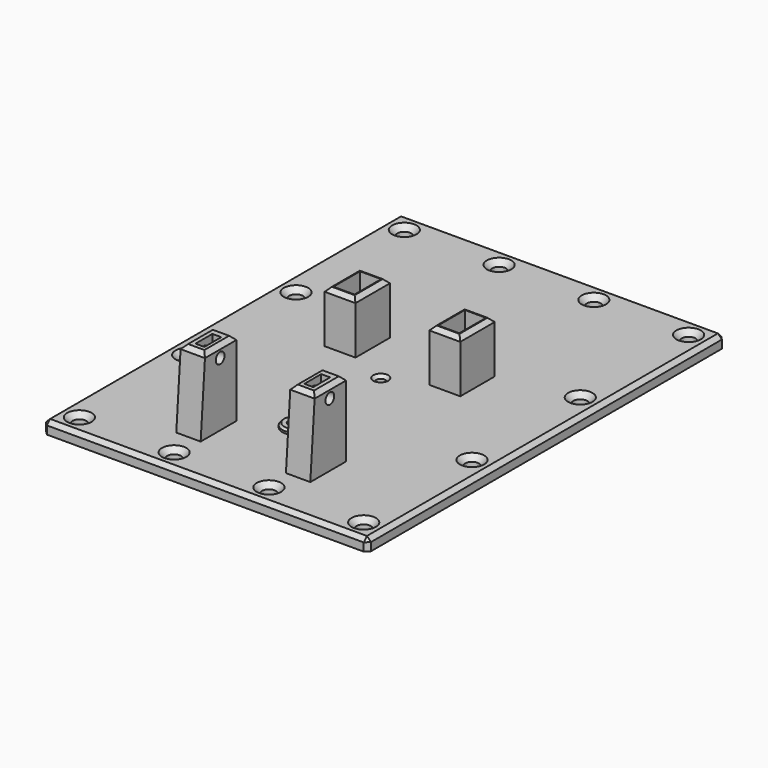
from build123d import *

# Parameters (mm, degrees)
SKETCH014_W     = 80
SKETCH014_H     = 110
PAD004_DEPTH    = 3
SKETCH015_R     = 3.2
PAD005_DEPTH    = 1
SKETCH016_R     = 1.65
POCKET010_DEPTH = 4.001
SKETCH017_W     = 7.6
SKETCH017_H     = 10.6
PAD006_DEPTH    = 12.8
SKETCH018_W     = 5.2
SKETCH018_H     = 8.2
POCKET011_DEPTH = 8.2
SKETCH019_R     = 1.1
SKETCH019_R_2   = 1.7
POCKET012_DEPTH = 3.001
SKETCH020_W     = 6
SKETCH020_H     = 11
PAD007_DEPTH    = 18.55
SKETCH021_R     = 1.35
POCKET013_DEPTH = 56.501
SKETCH022_W     = 2.2
SKETCH022_H     = 5.2
POCKET014_DEPTH = 5.7
SKETCH023_R     = 1.1
POCKET015_DEPTH = 15.851
CHAMFER_SIZE    = 1
CHAMFER001_SIZE = 1.3
CHAMFER002_SIZE = 1
CHAMFER003_SIZE = 0.75
CHAMFER004_SIZE = 0.5


with BuildPart() as part:
    # Sketch014 → Pad004 (new body)
    with BuildSketch(Plane.XY):
        with Locations((0, 55)):
            Rectangle(SKETCH014_W, SKETCH014_H)
    extrude(amount=PAD004_DEPTH)

    # Sketch015 (on Face6 of Pad004) → Pad005 (join)
    with BuildSketch(Plane.XY.offset(3)):
        with Locations((0, 27.7)):
            Circle(SKETCH015_R)
    extrude(amount=PAD005_DEPTH)

    # Sketch016 (on Face8 of Pad005) → Pocket010 (cut, through all)
    with BuildSketch(Plane.XY.offset(4)):
        with Locations((0, 27.7)):
            Circle(SKETCH016_R)
    extrude(amount=-POCKET010_DEPTH, mode=Mode.SUBTRACT)

    # Sketch017 (on Face5 of Pocket010) → Pad006 (join)
    with BuildSketch(Plane.XY.offset(3)):
        with Locations((-12.9, 62.9)):
            Rectangle(SKETCH017_W, SKETCH017_H)
        with Locations((12.9, 62.9)):
            Rectangle(SKETCH017_W, SKETCH017_H)
    extrude(amount=PAD006_DEPTH)

    # Sketch018 (on Face18 of Pad006) → Pocket011 (cut)
    with BuildSketch(Plane.XY.offset(15.8)):
        with Locations((-12.9, 62.9)):
            Rectangle(SKETCH018_W, SKETCH018_H)
        with Locations((12.9, 62.9)):
            Rectangle(SKETCH018_W, SKETCH018_H)
    extrude(amount=-POCKET011_DEPTH, mode=Mode.SUBTRACT)

    # Sketch019 (on Face5 of Pocket011) → Pocket012 (cut, through all)
    with BuildSketch(Plane.XY.offset(3)):
        with Locations((0, 54)):
            Circle(SKETCH019_R)
        with Locations((-11.667, 5)):
            Circle(SKETCH019_R_2)
        with Locations((11.666, 5)):
            Circle(SKETCH019_R_2)
        with Locations((35, 5)):
            Circle(SKETCH019_R_2)
        with Locations((-35, 38.333)):
            Circle(SKETCH019_R_2)
        with Locations((-35, 71.666)):
            Circle(SKETCH019_R_2)
        with Locations((-35, 105)):
            Circle(SKETCH019_R_2)
        with Locations((35, 38.333)):
            Circle(SKETCH019_R_2)
        with Locations((35, 71.666)):
            Circle(SKETCH019_R_2)
        with Locations((35, 105)):
            Circle(SKETCH019_R_2)
        with Locations((-11.667, 105)):
            Circle(SKETCH019_R_2)
        with Locations((11.666, 105)):
            Circle(SKETCH019_R_2)
        with Locations((-35, 5)):
            Circle(SKETCH019_R_2)
    extrude(amount=-POCKET012_DEPTH, mode=Mode.SUBTRACT)

    # Sketch020 (on Face5 of Pocket012) → Pad007 (join)
    with BuildSketch(Plane.XY.offset(3)):
        with Locations((13.5, 17.2)):
            Rectangle(SKETCH020_W, SKETCH020_H)
        with Locations((-13.5, 17.2)):
            Rectangle(SKETCH020_W, SKETCH020_H)
    extrude(amount=PAD007_DEPTH)

    # Sketch021 (on Face22 of Pad007) → Pocket013 (cut, through all)
    with BuildSketch(Plane(origin=(-16.5, 0, 0), x_dir=(0, -1, 0), z_dir=(-1, 0, 0))):
        with Locations((-17.7, 18.675)):
            Circle(SKETCH021_R)
        Polygon((-11.7, 3.05), (-11.7, 21.6), (-13.1, 21.6), align=None)
    extrude(amount=-POCKET013_DEPTH, mode=Mode.SUBTRACT)

    # Sketch022 (on Face39 of Pocket013) → Pocket014 (cut)
    with BuildSketch(Plane.XY.offset(21.55)):
        with Locations((-13.4, 17.7)):
            Rectangle(SKETCH022_W, SKETCH022_H)
        with Locations((13.4, 17.7)):
            Rectangle(SKETCH022_W, SKETCH022_H)
    extrude(amount=-POCKET014_DEPTH, mode=Mode.SUBTRACT)

    # Sketch023 (on Face65 of Pocket014) → Pocket015 (cut, through all)
    with BuildSketch(Plane.XY.offset(15.85)):
        with Locations((13.4, 19)):
            Circle(SKETCH023_R)
        with Locations((-13.4, 19)):
            Circle(SKETCH023_R)
    extrude(amount=-POCKET015_DEPTH, mode=Mode.SUBTRACT)

    # Chamfer
    chamfer_edges = [part.edges().sort_by_distance(p)[0] for p in [
        (0, 0, 3),
        (40, 55, 3),
        (0, 110, 3),
        (-40, 55, 3),
        (-40, 0, 1.5),
        (40, 0, 1.5),
        (-40, 110, 1.5),
        (40, 110, 1.5),
    ]]
    chamfer(chamfer_edges, length=CHAMFER_SIZE)

    # Chamfer001
    chamfer001_edges = [part.edges().sort_by_distance(p)[0] for p in [
        (33.3, 5, 3),
        (33.3, 38.333, 3),
        (33.3, 71.666, 3),
        (33.3, 105, 3),
        (9.966, 105, 3),
        (-13.367, 105, 3),
        (-36.7, 105, 3),
        (-36.7, 71.666, 3),
        (-36.7, 38.333, 3),
        (-36.7, 5, 3),
        (-13.367, 5, 3),
        (9.966, 5, 3),
    ]]
    chamfer(chamfer001_edges, length=CHAMFER001_SIZE)

    # Chamfer002
    chamfer002_edges = [part.edges().sort_by_distance(p)[0] for p in [
        (-16.5, 17.898113, 21.55),
        (-13.5, 13.096226, 21.55),
        (-10.5, 17.898113, 21.55),
        (-13.5, 22.7, 21.55),
        (10.5, 17.898113, 21.55),
        (13.5, 13.096226, 21.55),
        (16.5, 17.898113, 21.55),
        (13.5, 22.7, 21.55),
        (16.7, 62.9, 15.8),
        (12.9, 68.2, 15.8),
        (9.1, 62.9, 15.8),
        (12.9, 57.6, 15.8),
        (-9.1, 62.9, 15.8),
        (-12.9, 68.2, 15.8),
        (-16.7, 62.9, 15.8),
        (-12.9, 57.6, 15.8),
    ]]
    chamfer(chamfer002_edges, length=CHAMFER002_SIZE)

    # Chamfer003
    chamfer003_edges = [part.edges().sort_by_distance(p)[0] for p in [
        (-1.1, 54, 3),
    ]]
    chamfer(chamfer003_edges, length=CHAMFER003_SIZE)

    # Chamfer004
    chamfer004_edges = [part.edges().sort_by_distance(p)[0] for p in [
        (-3.2, 27.7, 4),
    ]]
    chamfer(chamfer004_edges, length=CHAMFER004_SIZE)


solid = part.part
